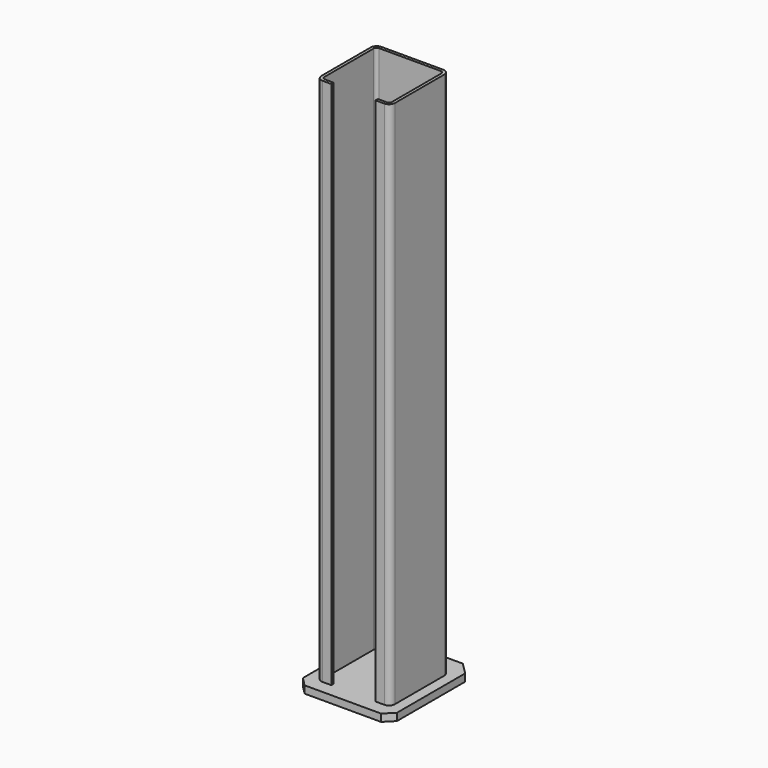
from build123d import *

# Parameters (mm, degrees)
F0_W      = 32
F0_H      = 36
F1_DEPTH  = 2.5
F3_DEPTH  = 180
F4_R      = 1
F5_R      = 2
F6_R      = 3
F7_DEPTH  = 5
F9_R      = 3
F9_R_2    = 2.25
F10_DEPTH = 1
F11_SIZE  = 3
F12_SIZE  = 4


with BuildPart() as f1:
    # F0 (on Top) → F1 (new body)
    with BuildSketch(Plane.XY):
        with Locations((0, 1)):
            Rectangle(F0_W, F0_H)
    extrude(amount=-F1_DEPTH)

    # F2 (on face) → F3 (join)
    with BuildSketch(Plane.XY):
        Polygon((12.5, -12.5), (12.5, 12.5), (-12.5, 12.5), (-12.5, -12.5), (-7.5, -12.5), (-7.5, -11.5), (-11.5, -11.5), (-11.5, 11.5), (11.5, 11.5), (11.5, -11.5), (7.5, -11.5), (7.5, -12.5), align=None)
    extrude(amount=F3_DEPTH)

    # F4
    f4_edges = [f1.edges().sort_by_distance(p)[0] for p in [
        (-11.5, 11.5, 90),
        (11.5, 11.5, 90),
        (-11.5, -11.5, 90),
        (11.5, -11.5, 90),
    ]]
    fillet(f4_edges, radius=F4_R)

    # F5
    f5_edges = [f1.edges().sort_by_distance(p)[0] for p in [
        (-12.5, 12.5, 90),
        (12.5, 12.5, 90),
        (12.5, -12.5, 90),
        (-12.5, -12.5, 90),
    ]]
    fillet(f5_edges, radius=F5_R)

    # F6 (on face) → F7 (join)
    with BuildSketch(Plane.XZ.offset(-11.5)):
        with Locations((0, 5)):
            Circle(F6_R)
    extrude(amount=F7_DEPTH)

    # F9 (on offset) → F10 (cut, symmetric)
    with BuildSketch(Plane.XZ.offset(-8.5)):
        with Locations((0, 5)):
            Circle(F9_R)
        with Locations((0, 5)):
            Circle(F9_R_2, mode=Mode.SUBTRACT)
    extrude(amount=F10_DEPTH, both=True, mode=Mode.SUBTRACT)

    # F11
    f11_edges = [f1.edges().sort_by_distance(p)[0] for p in [
        (-16, -17, -1.25),
        (16, -17, -1.25),
    ]]
    chamfer(f11_edges, length=F11_SIZE)

    # F12
    f12_edges = [f1.edges().sort_by_distance(p)[0] for p in [
        (16, 19, -1.25),
        (-16, 19, -1.25),
    ]]
    chamfer(f12_edges, length=F12_SIZE)


solid = f1.part
